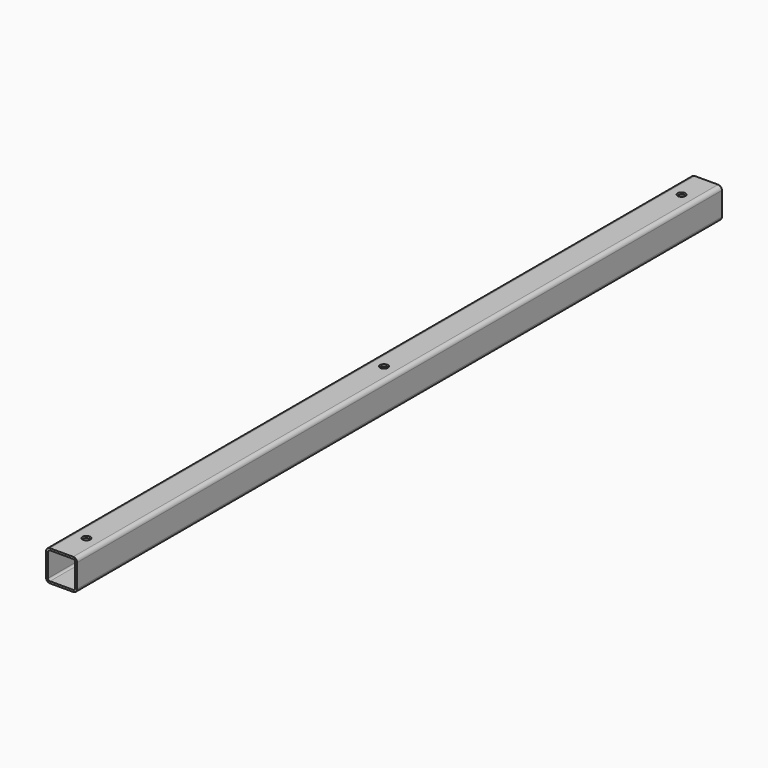
from build123d import *

# Parameters (mm, degrees)
F1_DEPTH = 660.4
F2_R     = 6.35
F3_DEPTH = 50.801


with BuildPart() as f1:
    # F0 (on Front) → F1 (new body, symmetric)
    with BuildSketch(Plane.XZ):
        with BuildLine():
            Line((-19.05, -25.4), (19.05, -25.4))
            ThreePointArc((19.05, -25.4), (23.540128, -23.540128), (25.4, -19.05))
            Line((25.4, -19.05), (25.4, 19.05))
            ThreePointArc((25.4, 19.05), (23.540128, 23.540128), (19.05, 25.4))
            Line((19.05, 25.4), (-19.05, 25.4))
            ThreePointArc((-19.05, 25.4), (-23.540128, 23.540128), (-25.4, 19.05))
            Line((-25.4, 19.05), (-25.4, -19.05))
            ThreePointArc((-25.4, -19.05), (-23.540128, -23.540128), (-19.05, -25.4))
        make_face()
        with BuildLine():
            Line((-19.05, 22.225), (19.05, 22.225))
            ThreePointArc((19.05, 22.225), (21.295064, 21.295064), (22.225, 19.05))
            Line((22.225, 19.05), (22.225, -19.05))
            ThreePointArc((22.225, -19.05), (21.295064, -21.295064), (19.05, -22.225))
            Line((19.05, -22.225), (-19.05, -22.225))
            ThreePointArc((-19.05, -22.225), (-21.295064, -21.295064), (-22.225, -19.05))
            Line((-22.225, -19.05), (-22.225, 19.05))
            ThreePointArc((-22.225, 19.05), (-21.295064, 21.295064), (-19.05, 22.225))
        make_face(mode=Mode.SUBTRACT)
    extrude(amount=F1_DEPTH, both=True)

    # F2 (on face) → F3 (cut, through all)
    with BuildSketch(Plane.XY.offset(25.4)):
        Circle(F2_R)
        with Locations((0, -609.6)):
            Circle(F2_R)
        with Locations((0, 609.6)):
            Circle(F2_R)
    extrude(amount=-F3_DEPTH, mode=Mode.SUBTRACT)


solid = f1.part
